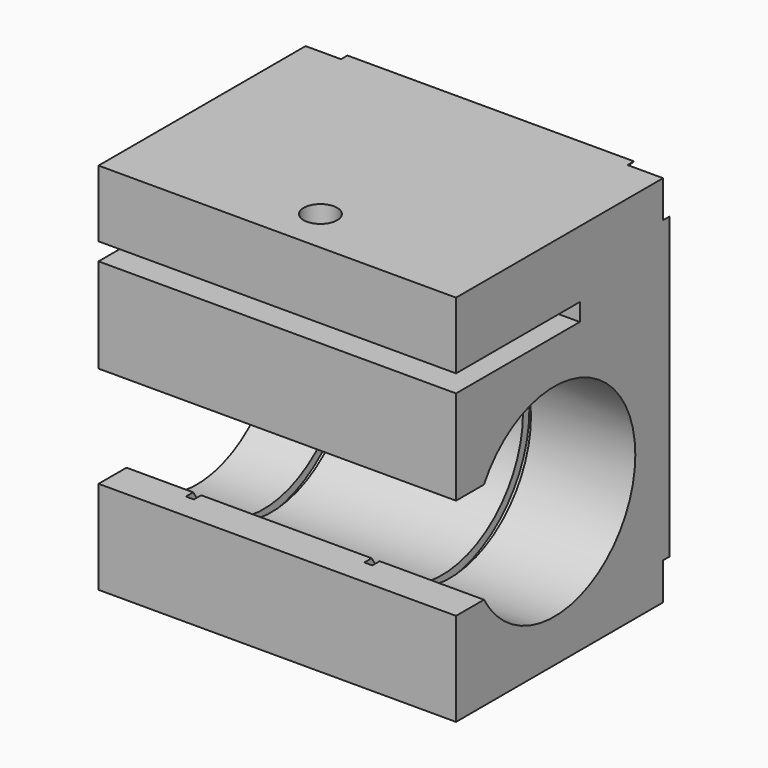
from build123d import *

# Parameters (mm, degrees)
F0_W      = 67
F0_H      = 70
F1_DEPTH  = 50
F3_DEPTH  = 1.5
F5_DEPTH  = 67
F7_R      = 20.5
F8_DEPTH  = 1.5
F9_W      = 29
F9_H      = 3.3
F10_DEPTH = 67
F12_R     = 20.5
F13_DEPTH = 1.5
F14_R     = 3.15
F15_DEPTH = 12.5


with BuildPart() as f1:
    # F0 (on Front) → F1 (new body)
    with BuildSketch(Plane.XZ):
        with Locations((-1.4453364354, 0.3557987511)):
            Rectangle(F0_W, F0_H)
    extrude(amount=F1_DEPTH)

    # F2 (on face) → F3 (cut)
    with BuildSketch(Plane(origin=(0, 0, 0), x_dir=(-1, 0, 0), z_dir=(0, 1, 0))):
        Polygon((-32.0546635646, -27.7023371982), (-32.0546635646, -34.6442012489), (-1.8768413603, -3.1151332742), (-5.199019156, 0.3557987511), align=None)
        Polygon((-1.8768413603, -3.1151332742), (-32.0546635646, -34.6442012489), (-25.4103079732, -34.6442012489), (1.4453364354, -6.5860652996), align=None)
        Polygon((-5.199019156, 0.3557987511), (-1.8768413603, -3.1151332742), (1.4453364354, 0.3557987511), (-1.8768413603, 3.8267307765), align=None)
        Polygon((1.4453364354, 0.3557987511), (-1.8768413603, -3.1151332742), (1.4453364354, -6.5860652996), (4.7675142311, -3.1151332742), align=None)
        Polygon((-1.8768413603, 3.8267307765), (1.4453364354, 0.3557987511), (4.7675142311, 3.8267307765), (1.4453364354, 7.2976628018), align=None)
        Polygon((4.7675142311, 3.8267307765), (1.4453364354, 0.3557987511), (4.7675142311, -3.1151332742), (8.0896920268, 0.3557987511), align=None)
        Polygon((-32.0546635646, 28.4139347004), (-5.199019156, 0.3557987511), (-1.8768413603, 3.8267307765), (-32.0546635646, 35.3557987511), align=None)
        Polygon((34.9453364354, 35.3557987511), (4.7675142311, 3.8267307765), (8.0896920268, 0.3557987511), (34.9453364354, 28.4139347004), align=None)
        Polygon((8.0896920268, 0.3557987511), (4.7675142311, -3.1151332742), (34.9453364354, -34.6442012489), (34.9453364354, -27.7023371982), align=None)
        Polygon((-32.0546635646, 35.3557987511), (-1.8768413603, 3.8267307765), (1.4453364354, 7.2976628018), (-25.4103079732, 35.3557987511), align=None)
        Polygon((1.4453364354, 7.2976628018), (4.7675142311, 3.8267307765), (34.9453364354, 35.3557987511), (28.300980844, 35.3557987511), align=None)
        Polygon((4.7675142311, -3.1151332742), (1.4453364354, -6.5860652996), (28.300980844, -34.6442012489), (34.9453364354, -34.6442012489), align=None)
    extrude(amount=-F3_DEPTH, mode=Mode.SUBTRACT)

    # F4 (on face) → F5 (cut, through all)
    with BuildSketch(Plane(origin=(-34.9453364354, 0, 0), x_dir=(0, -1, 0), z_dir=(-1, 0, 0))):
        with BuildLine():
            ThreePointArc((43.4544826719, 1.8557987511), (45.3525906995, -2.7266393919), (46, -7.6442012489))
            Line((46, -7.6442012489), (46.011290825, -7.6442012489))
            ThreePointArc((46.011290825, -7.6442012489), (45.3609147785, -2.7251752291), (43.4544826719, 1.8557987511))
        make_face()
        with BuildLine():
            Line((46.011290825, -7.6442012489), (46, -7.6442012489))
            ThreePointArc((46, -7.6442012489), (45.3525906995, -12.5617631058), (43.4544826719, -17.1442012489))
            ThreePointArc((43.4544826719, -17.1442012489), (45.3609147785, -12.5632272686), (46.011290825, -7.6442012489))
        make_face()
        with BuildLine():
            Line((50, 1.8557987511), (43.4544826719, 1.8557987511))
            ThreePointArc((43.4544826719, 1.8557987511), (45.3609147785, -2.7251752291), (46.011290825, -7.6442012489))
            Line((46.011290825, -7.6442012489), (50, -7.6442012489))
            Line((50, -7.6442012489), (50, 1.8557987511))
        make_face()
        with BuildLine():
            ThreePointArc((43.4544826719, -17.1442012489), (45.3525906995, -12.5617631058), (46, -7.6442012489))
            ThreePointArc((46, -7.6442012489), (45.3525906995, -2.7266393919), (43.4544826719, 1.8557987511))
            ThreePointArc((43.4544826719, 1.8557987511), (8, -7.6442012489), (43.4544826719, -17.1442012489))
        make_face()
        with BuildLine():
            ThreePointArc((46.011290825, -7.6442012489), (45.3609147785, -12.5632272686), (43.4544826719, -17.1442012489))
            Line((43.4544826719, -17.1442012489), (50, -17.1442012489))
            Line((50, -17.1442012489), (50, -7.6442012489))
            Line((50, -7.6442012489), (46.011290825, -7.6442012489))
        make_face()
    extrude(amount=-F5_DEPTH, mode=Mode.SUBTRACT)

    # F7 (on offset) → F8 (cut)
    with BuildSketch(Plane.YZ.offset(12.5)):
        with Locations((-27, -7.6442012489)):
            Circle(F7_R)
    extrude(amount=-F8_DEPTH, mode=Mode.SUBTRACT)

    # F9 (on face) → F10 (cut, through all)
    with BuildSketch(Plane(origin=(-34.9453364354, 0, 0), x_dir=(0, -1, 0), z_dir=(-1, 0, 0))):
        with Locations((35.5, 21.2057987511)):
            Rectangle(F9_W, F9_H)
    extrude(amount=-F10_DEPTH, mode=Mode.SUBTRACT)

    # F12 (on offset) → F13 (cut)
    with BuildSketch(Plane(origin=(-22.4453364354, 0, 0), x_dir=(0, -1, 0), z_dir=(-1, 0, 0))):
        with Locations((27, -7.6442012489)):
            Circle(F12_R)
    extrude(amount=-F13_DEPTH, mode=Mode.SUBTRACT)

    # F14 (on face) → F15 (cut, through all)
    with BuildSketch(Plane.XY.offset(35.3557987511)):
        with Locations((0, -41.7)):
            Circle(F14_R)
    extrude(amount=-F15_DEPTH, mode=Mode.SUBTRACT)


solid = f1.part
